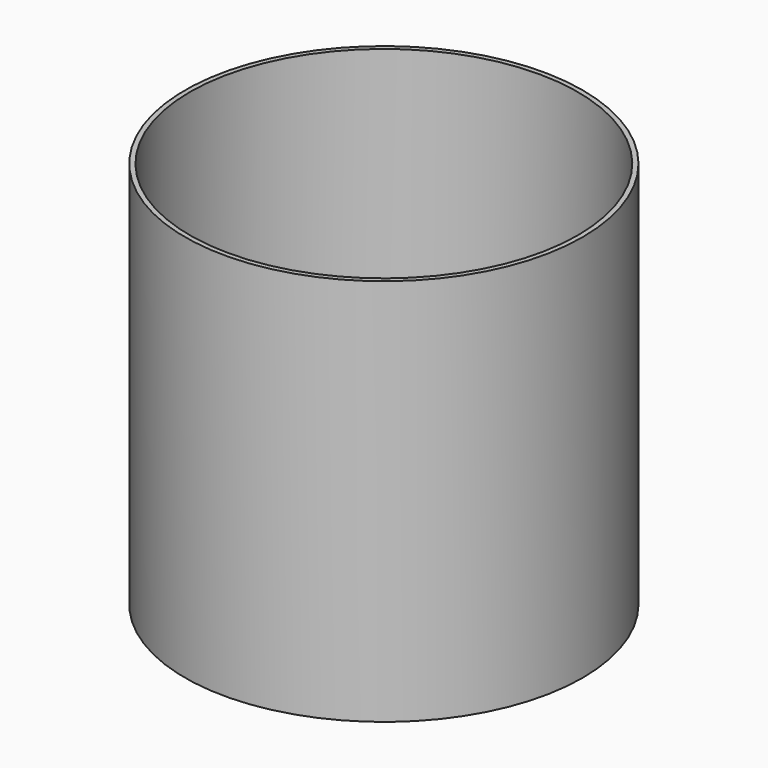
from build123d import *

# Parameters (mm, degrees)
CYLINDER016_R     = 40
CYLINDER016_DEPTH = 80
CYLINDER017_R     = 41
CYLINDER017_DEPTH = 80


with BuildPart() as cylinder016:
    # Cylinder016 → Cylinder016 (new body)
    with BuildSketch(Plane.XY.offset(1)):
        Circle(CYLINDER016_R)
    extrude(amount=CYLINDER016_DEPTH)


with BuildPart() as cut004:
    # Cylinder017 → Cylinder017 (new body)
    with BuildSketch(Plane.XY.offset(1)):
        Circle(CYLINDER017_R)
    extrude(amount=CYLINDER017_DEPTH)

    # Cut004: cut Cylinder016
    add(cylinder016.part, mode=Mode.SUBTRACT)


solid = cut004.part
